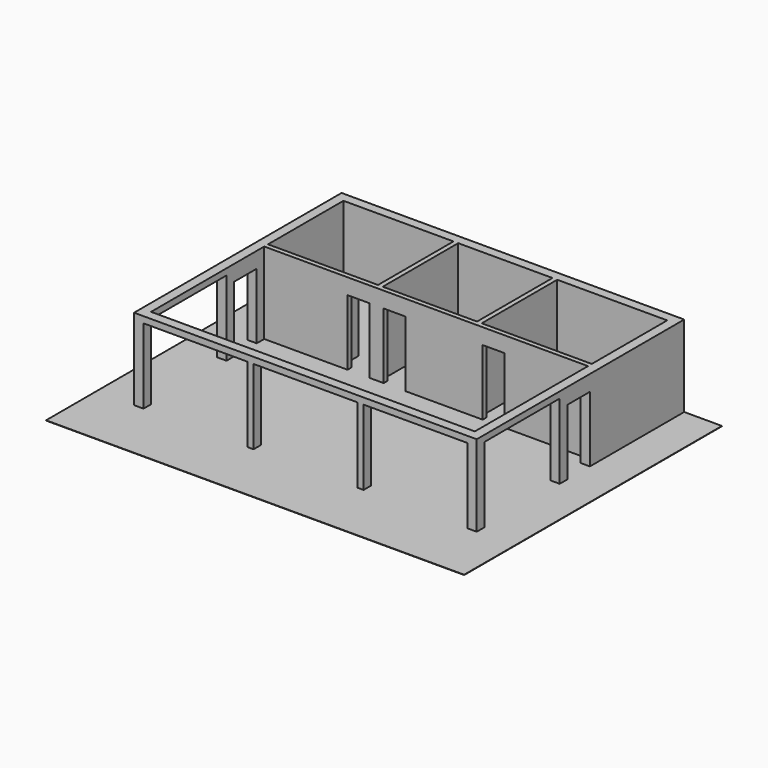
from build123d import *

# Parameters (mm, degrees)
F0_W      = 10900
F0_H      = 8250
F0_W_2    = 10300
F0_H_2    = 4500
F0_W_3    = 3500
F0_H_3    = 3000
F0_W_4    = 3000
F1_DEPTH  = 2600
F2_W      = 700
F2_H      = 2100
F3_DEPTH  = 150
F4_W      = 2400
F4_H      = 2100
F4_W_2    = 1800
F5_DEPTH  = 600
F6_W      = 900
F6_H      = 2100
F7_DEPTH  = 300
F8_W      = 900
F8_H      = 2100
F9_DEPTH  = 300
F11_W     = 3000
F11_H     = 2400
F12_DEPTH = 300
F10_W     = 3000
F10_H     = 2400
F13_DEPTH = 300
F14_W     = 3300
F14_H     = 2400
F15_DEPTH = 300
F16_W     = 13300
F16_H     = 10250
F17_DEPTH = 10


with BuildPart() as f1:
    # F0 (on Top) → F1 (new body)
    with BuildSketch(Plane.XY):
        with Locations((5150, -825)):
            Rectangle(F0_W, F0_H)
        with Locations((5150, -2400)):
            Rectangle(F0_W_2, F0_H_2, mode=Mode.SUBTRACT)
        with Locations((1750, 1500)):
            Rectangle(F0_W_3, F0_H_3, mode=Mode.SUBTRACT)
        with Locations((5150, 1500)):
            Rectangle(F0_W_4, F0_H_3, mode=Mode.SUBTRACT)
        with Locations((8550, 1500)):
            Rectangle(F0_W_3, F0_H_3, mode=Mode.SUBTRACT)
    extrude(amount=F1_DEPTH)

    # F2 (on face) → F3 (cut, through all)
    with BuildSketch(Plane(origin=(0, 0, 0), x_dir=(-1, 0, 0), z_dir=(0, 1, 0))):
        with Locations((-4150, 1050)):
            Rectangle(F2_W, F2_H)
        with Locations((-7300, 1050)):
            Rectangle(F2_W, F2_H)
        with Locations((-3000, 1050)):
            Rectangle(F2_W, F2_H)
    extrude(amount=-F3_DEPTH, mode=Mode.SUBTRACT)

    # F4 (on face) → F5 (join)
    with BuildSketch(Plane(origin=(0, 0, 0), x_dir=(-1, 0, 0), z_dir=(0, 1, 0))):
        with Locations((-9100, 1050)):
            Rectangle(F4_W, F4_H)
        with Locations((-5750, 1050)):
            Rectangle(F4_W_2, F4_H)
        with Locations((-1200, 1050)):
            Rectangle(F4_W, F4_H)
    extrude(amount=F5_DEPTH)

    # F6 (on face) → F7 (cut, through all)
    with BuildSketch(Plane(origin=(10300, 0, 0), x_dir=(0, -1, 0), z_dir=(-1, 0, 0))):
        with Locations((900, 1050)):
            Rectangle(F6_W, F6_H)
    extrude(amount=-F7_DEPTH, mode=Mode.SUBTRACT)

    # F8 (on face) → F9 (cut, through all)
    with BuildSketch(Plane.YZ):
        with Locations((-900, 1050)):
            Rectangle(F8_W, F8_H)
    extrude(amount=-F9_DEPTH, mode=Mode.SUBTRACT)

    # F11 (on face) → F12 (cut, through all)
    with BuildSketch(Plane.YZ):
        with Locations((-3150, 1200)):
            Rectangle(F11_W, F11_H)
    extrude(amount=-F12_DEPTH, mode=Mode.SUBTRACT)

    # F10 (on face) → F13 (cut, through all)
    with BuildSketch(Plane(origin=(10300, 0, 0), x_dir=(0, -1, 0), z_dir=(-1, 0, 0))):
        with Locations((3150, 1200)):
            Rectangle(F10_W, F10_H)
    extrude(amount=-F13_DEPTH, mode=Mode.SUBTRACT)

    # F14 (on face) → F15 (cut, through all)
    with BuildSketch(Plane(origin=(0, -4650, 0), x_dir=(-1, 0, 0), z_dir=(0, 1, 0))):
        with Locations((-8650, 1200)):
            Rectangle(F14_W, F14_H)
        with Locations((-5150, 1200)):
            Rectangle(F14_W, F14_H)
        with Locations((-1650, 1200)):
            Rectangle(F14_W, F14_H)
    extrude(amount=-F15_DEPTH, mode=Mode.SUBTRACT)

    # F16 (on Top) → F17 (join)
    with BuildSketch(Plane.XY):
        with Locations((5150, -1825)):
            Rectangle(F16_W, F16_H)
    extrude(amount=F17_DEPTH)


solid = f1.part
